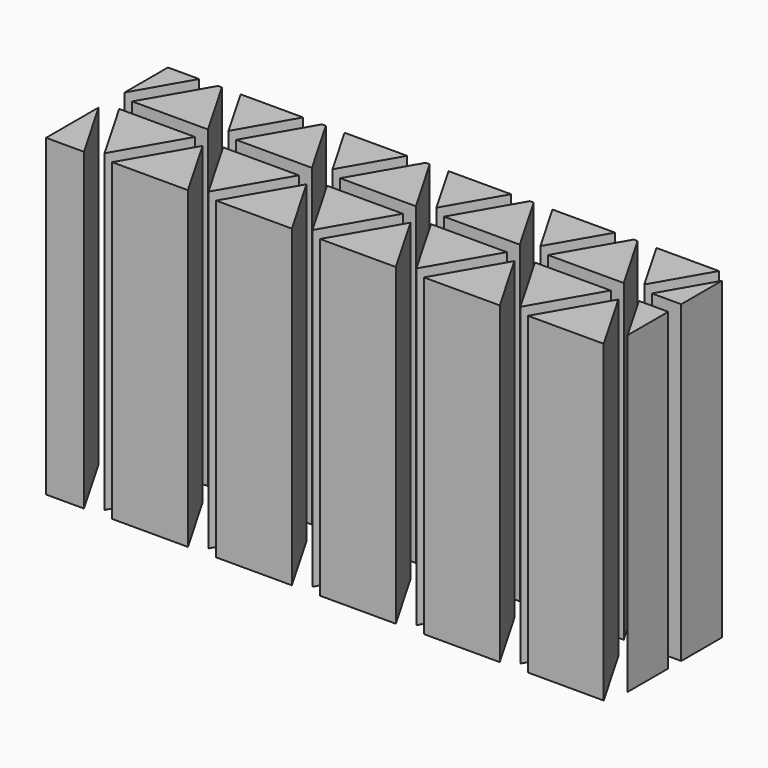
from build123d import *

# Parameters (mm, degrees)
BOX004_W              = 52
BOX004_H              = 29
BOX004_DEPTH          = 15
BOX004_ROLL_ANGLE     = -90
PAD008_DEPTH          = 50
ARRAY_COUNT           = 6
ARRAY_PLACEMENT_ANGLE = 90
ARRAY001_X_COUNT      = 8
ARRAY001_X_PITCH      = 16.624356
ARRAY001_Y_COUNT      = 8
ARRAY001_Y_PITCH      = 16.624356


with BuildPart() as obj1:
    # Box004 → Box004 (new body)
    with BuildSketch(Plane.XY):
        with Locations((26, 14.5)):
            Rectangle(BOX004_W, BOX004_H)
    extrude(amount=BOX004_DEPTH)


with BuildPart() as obj1_1:
    # Box004 roll: moved
    add(obj1.part.rotate(Axis((0, 0, 0), (1, 0, 0)), BOX004_ROLL_ANGLE))


with BuildPart() as obj1_2:
    # Box004 placement: moved
    add(obj1_1.part.moved(Location((0, -8, -3))))


with BuildPart() as obj2:
    # Sketch020 → Pad008 (new body)
    with BuildSketch(Plane.XY):
        Polygon((7.562178, 3.5), (1.5, 0), (7.562178, -3.5), align=None)
    extrude(amount=PAD008_DEPTH)

    # Array: obj2 ×6 about axis
    array_axis = Axis((0, 0, 0), (0, 0, 1))


with BuildPart() as obj2_1:
    add(obj2.part)
    for i in range(1, ARRAY_COUNT):
        add(obj2.part.rotate(array_axis, i * 360 / ARRAY_COUNT))


with BuildPart() as obj2_2:
    # Array placement: moved
    add(obj2_1.part.rotate(Axis((0, 0, 0), (0, 0, 1)), ARRAY_PLACEMENT_ANGLE))

    # Array001 X: obj2 ×8


with BuildPart() as obj2_3:
    add(obj2_2.part)
    with Locations(*[Vector(0.866025, 0.5, 0) * (i * ARRAY001_X_PITCH) for i in range(1, ARRAY001_X_COUNT)]):
        add(obj2_2.part)

    # Array001 Y: obj2 ×8


with BuildPart() as obj2_4:
    add(obj2_3.part)
    with Locations(*[Vector(-0.866025, 0.5, 0) * (i * ARRAY001_Y_PITCH) for i in range(1, ARRAY001_Y_COUNT)]):
        add(obj2_3.part)


with BuildPart() as obj2_5:
    # Clone015 placement: moved
    add(obj2_4.part.moved(Location((0, -66, -39))))

    # Common001: intersect obj1
    add(obj1_2.part, mode=Mode.INTERSECT)


solid = obj2_5.part
